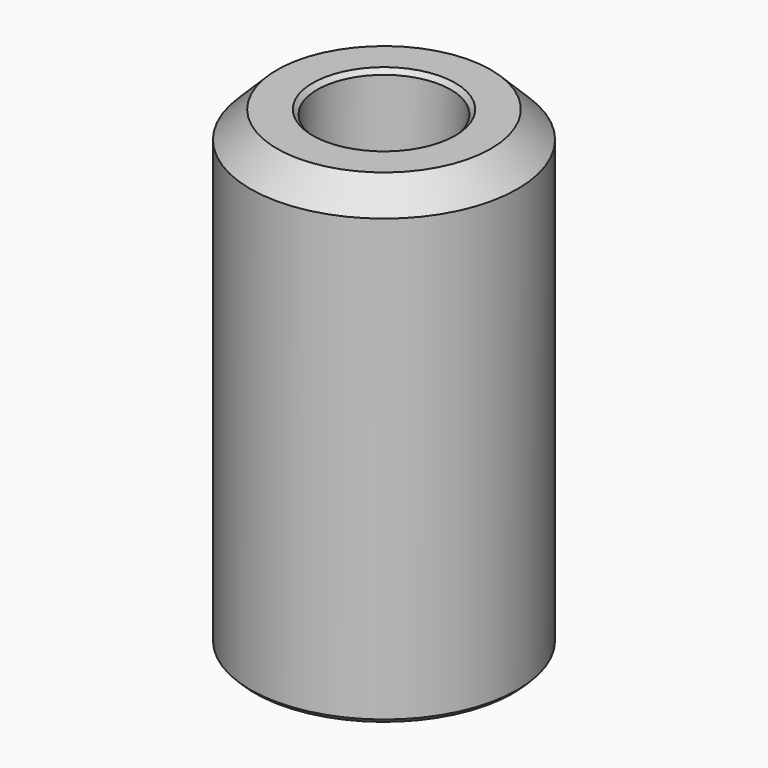
from build123d import *

# Parameters (mm, degrees)
F2_SIZE = 3
F3_SIZE = 0.5


with BuildPart() as f1:
    # F0 (on Front) → F1 (revolve)
    with BuildSketch(Plane.XZ):
        Polygon((8, 40), (8, 0), (15, 0), (15, 53), (7.5, 53), (7.5, 44.5), (4.5, 44.5), (4.5, 42.020726), align=None)
    revolve(axis=Axis((0, 0, 33.144991), (0, 0, 1)))

    # F2
    f2_edges = [f1.edges().sort_by_distance(p)[0] for p in [
        (-15, 0, 53),
    ]]
    chamfer(f2_edges, length=F2_SIZE)

    # F3
    f3_edges = [f1.edges().sort_by_distance(p)[0] for p in [
        (-7.5, 0, 53),
        (-15, 0, 0),
        (-8, 0, 0),
    ]]
    chamfer(f3_edges, length=F3_SIZE)


solid = f1.part
